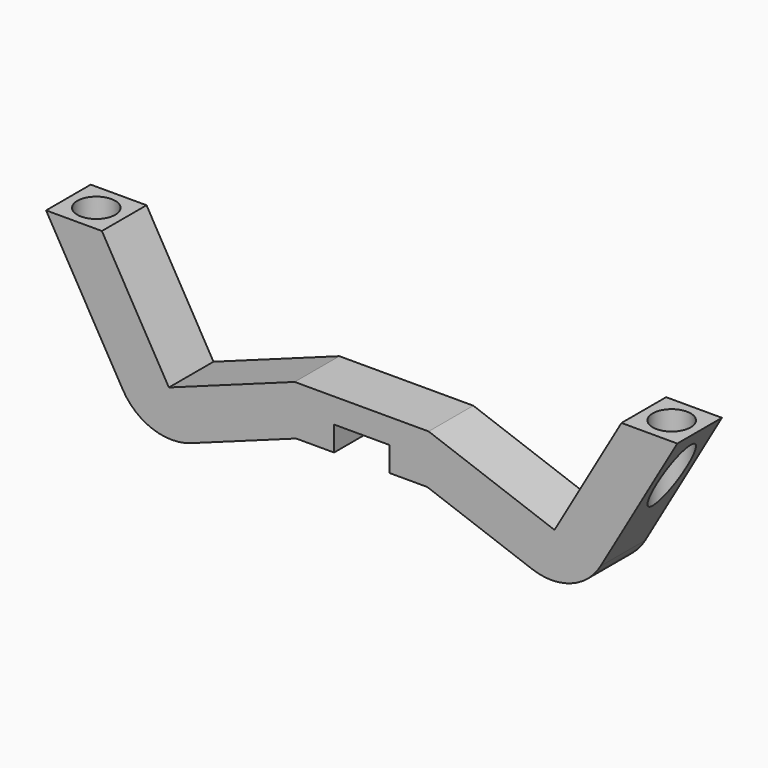
from build123d import *

# Parameters (mm, degrees)
F1_DEPTH = 12.5
F3_R     = 4.25
F4_DEPTH = 25.4
F2_R     = 4.25
F5_DEPTH = 54.356
F6_W     = 12.369135
F6_H     = 5.527861
F7_DEPTH = 25.4


with BuildPart() as f1:
    # F0 (on Front) → F1 (new body)
    with BuildSketch(Plane.XZ):
        with BuildLine():
            Line((-2.776492, 16.536297), (-32.776492, 16.536297))
            Line((-32.776492, 16.536297), (-60.96727, 6.275693))
            Line((-60.96727, 6.275693), (-75.96727, 32.256455))
            Line((-75.96727, 32.256455), (-88.46727, 32.256455))
            Line((-88.46727, 32.256455), (-71.295553, 2.514168))
            ThreePointArc((-71.295553, 2.514168), (-64.640686, -3.069928), (-55.953374, -3.069928))
            Line((-55.953374, -3.069928), (-32.461059, 5.480576))
            Line((-32.461059, 5.480576), (-3.091924, 5.480576))
            Line((-3.091924, 5.480576), (20.400391, -3.069928))
            ThreePointArc((20.400391, -3.069928), (29.087703, -3.069928), (35.74257, 2.514168))
            Line((35.74257, 2.514168), (52.914287, 32.256455))
            Line((52.914287, 32.256455), (40.414287, 32.256455))
            Line((40.414287, 32.256455), (25.414287, 6.275693))
            Line((25.414287, 6.275693), (-2.776492, 16.536297))
        make_face()
    extrude(amount=F1_DEPTH)

    # F3 (on face) → F4 (cut)
    with BuildSketch(Plane.XY.offset(32.256455)):
        with Locations((-82.21727, -6.25)):
            Circle(F3_R)
    extrude(amount=-F4_DEPTH, mode=Mode.SUBTRACT)

    # F2 (on face) → F5 (cut)
    with BuildSketch(Plane.XY.offset(32.256455)):
        with Locations((46.664287, -6.25)):
            Circle(F2_R)
    extrude(amount=-F5_DEPTH, mode=Mode.SUBTRACT)

    # F6 (on face) → F7 (cut)
    with BuildSketch(Plane.XZ.offset(12.5)):
        with Locations((-17.776491, 8.244506)):
            Rectangle(F6_W, F6_H)
    extrude(amount=-F7_DEPTH, mode=Mode.SUBTRACT)


solid = f1.part
